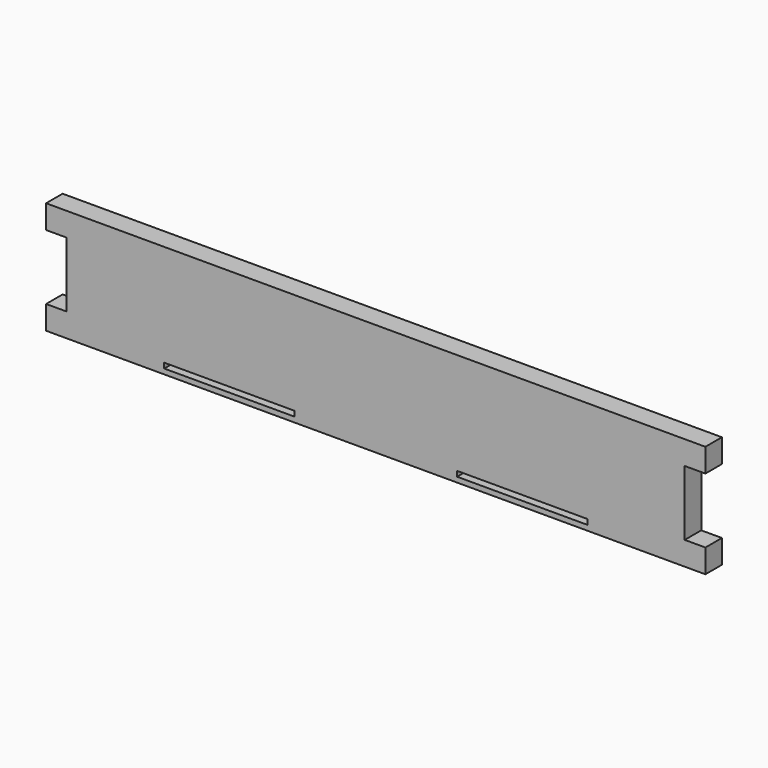
from build123d import *

# Parameters (mm, degrees)
F1_W     = 80
F1_H     = 3.18
F2_DEPTH = 12.7


with BuildPart() as f2:
    # F1 (on Front) → F2 (new body)
    with BuildSketch(Plane.XZ):
        Polygon((-202.6, -3.18), (202.6, -3.18), (202.6, 11.32), (189.9, 11.32), (189.9, 51.32), (202.6, 51.32), (202.6, 65.82), (-202.6, 65.82), (-202.6, 51.32), (-189.9, 51.32), (-189.9, 11.32), (-202.6, 11.32), align=None)
        with Locations((-90, 1.59)):
            Rectangle(F1_W, F1_H, mode=Mode.SUBTRACT)
        with Locations((90, 1.59)):
            Rectangle(F1_W, F1_H, mode=Mode.SUBTRACT)
    extrude(amount=F2_DEPTH)


solid = f2.part
